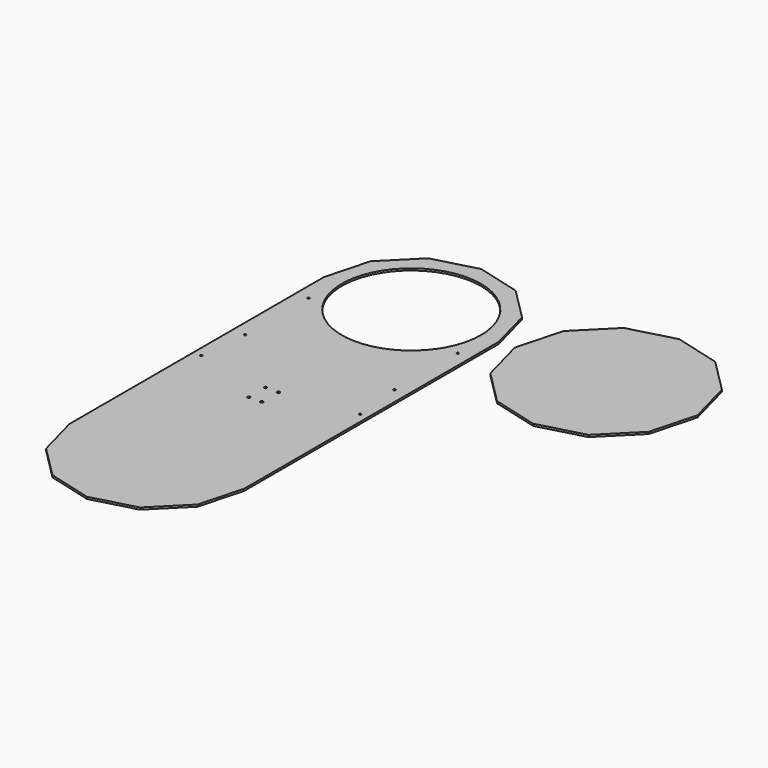
from build123d import *

# Parameters (mm, degrees)
F0_R     = 111.125
F1_DEPTH = 3.175
F2_R     = 20.6375
F2_R_2   = 1.7272
F2_R_3   = 2.15265
F3_DEPTH = 3.175


with BuildPart() as f1:
    # F0 (on Top) → F1 (new body)
    with BuildSketch(Plane.XY):
        Polygon((279.4, -508), (279.4, 0), (260.683749, 69.85), (209.55, 120.983749), (139.7, 139.7), (69.85, 120.983749), (18.716251, 69.85), (0, 0), (0, -508), (18.716251, -577.85), (69.85, -628.983749), (139.7, -647.7), (209.55, -628.983749), (260.683749, -577.85), align=None)
        with Locations((139.7, 0)):
            Circle(F0_R, mode=Mode.SUBTRACT)
        Polygon((450.85, -146.05), (523.875, -126.48301), (577.33301, -73.025), (596.9, 0), (577.33301, 73.025), (523.875, 126.48301), (450.85, 146.05), (377.825, 126.48301), (324.36699, 73.025), (304.8, 0), (324.36699, -73.025), (377.825, -126.48301), align=None)
    extrude(amount=F1_DEPTH)

    # F2 (on face) → F3 (cut, through all)
    with BuildSketch(Plane.XY.offset(3.175)):
        with Locations((139.7, 70.711917)):
            Circle(F2_R)
        with Locations((258.867743, -56.119668)):
            Circle(F2_R_2)
        with Locations((258.867743, -182.724216)):
            Circle(F2_R_2)
        with Locations((110.33125, 41.343167)):
            Circle(F2_R_2)
        with Locations((169.06875, 41.343167)):
            Circle(F2_R_2)
        with Locations((169.06875, 100.080667)):
            Circle(F2_R_2)
        with Locations((110.33125, 100.080667)):
            Circle(F2_R_2)
        with Locations((20.532257, -182.724216)):
            Circle(F2_R_2)
        with Locations((20.532257, -56.119668)):
            Circle(F2_R_2)
        with Locations((266.7, -260.709442)):
            Circle(F2_R_2)
        with Locations((12.7, -260.709442)):
            Circle(F2_R_2)
        with Locations((150.01875, -311.509442)):
            Circle(F2_R_3)
        with Locations((129.38125, -311.509442)):
            Circle(F2_R_3)
        with Locations((129.38125, -278.171942)):
            Circle(F2_R_3)
        with Locations((150.01875, -278.171942)):
            Circle(F2_R_3)
    extrude(amount=-F3_DEPTH, mode=Mode.SUBTRACT)


solid = f1.part
